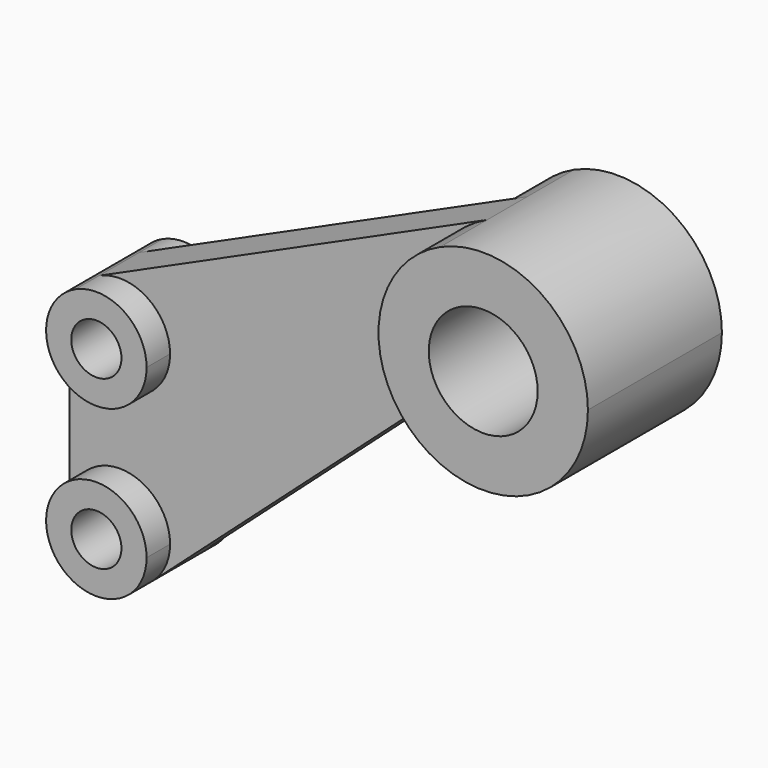
from build123d import *

# Parameters (mm, degrees)
F1_DEPTH = 5.9944
F0_R     = 13.0048
F2_DEPTH = 20.0025
F0_R_2   = 5.9944
F3_DEPTH = 13.0048


with BuildPart() as f1:
    # F0 (on Front) → F1 (new body, symmetric)
    with BuildSketch(Plane.XZ):
        with BuildLine():
            ThreePointArc((-12.949346, 32.124952), (-24.961282, 55.017041), (-10.294693, 76.306136))
            Line((-10.294693, 76.306136), (-102.934025, 34.457115))
            ThreePointArc((-102.934025, 34.457115), (-91.484026, 33.602816), (-85.9917, 23.519828))
            ThreePointArc((-85.9917, 23.519828), (-97.9932, 11.518328), (-109.9947, 23.519828))
            Line((-109.9947, 23.519828), (-109.9947, -16.485172))
            ThreePointArc((-109.9947, -16.485172), (-97.9932, -4.483672), (-85.9917, -16.485172))
            ThreePointArc((-85.9917, -16.485172), (-87.036779, -21.383422), (-89.990008, -25.428602))
            Line((-89.990008, -25.428602), (-27.152389, 30.802793))
            ThreePointArc((-27.152389, 30.802793), (-20.268898, 33.806017), (-12.949346, 32.124952))
        make_face()
    extrude(amount=F1_DEPTH, both=True)

    # F0 (on Front) → F2 (join, symmetric)
    with BuildSketch(Plane.XZ):
        with BuildLine():
            ThreePointArc((-12.949346, 32.124952), (12.278025, 31.732712), (25.0063, 53.517228))
            ThreePointArc((25.0063, 53.517228), (13.562501, 74.526121), (-10.294693, 76.306136))
            ThreePointArc((-10.294693, 76.306136), (-24.961282, 55.017041), (-12.949346, 32.124952))
        make_face()
        with Locations((0, 53.517228)):
            Circle(F0_R, mode=Mode.SUBTRACT)
    extrude(amount=F2_DEPTH, both=True)

    # F0 (on Front) → F3 (join, symmetric)
    with BuildSketch(Plane.XZ):
        with BuildLine():
            ThreePointArc((-85.9917, 23.519828), (-91.484026, 33.602816), (-102.934025, 34.457115))
            ThreePointArc((-102.934025, 34.457115), (-108.076189, 30.029001), (-109.9947, 23.519828))
            ThreePointArc((-109.9947, 23.519828), (-97.9932, 11.518328), (-85.9917, 23.519828))
        make_face()
        with Locations((-97.9932, 23.519828)):
            Circle(F0_R_2, mode=Mode.SUBTRACT)
        with BuildLine():
            ThreePointArc((-109.9947, -16.485172), (-102.89145, -27.441593), (-89.990008, -25.428602))
            ThreePointArc((-89.990008, -25.428602), (-87.036779, -21.383422), (-85.9917, -16.485172))
            ThreePointArc((-85.9917, -16.485172), (-97.9932, -4.483672), (-109.9947, -16.485172))
        make_face()
        with Locations((-97.9932, -16.485172)):
            Circle(F0_R_2, mode=Mode.SUBTRACT)
    extrude(amount=F3_DEPTH, both=True)


solid = f1.part
